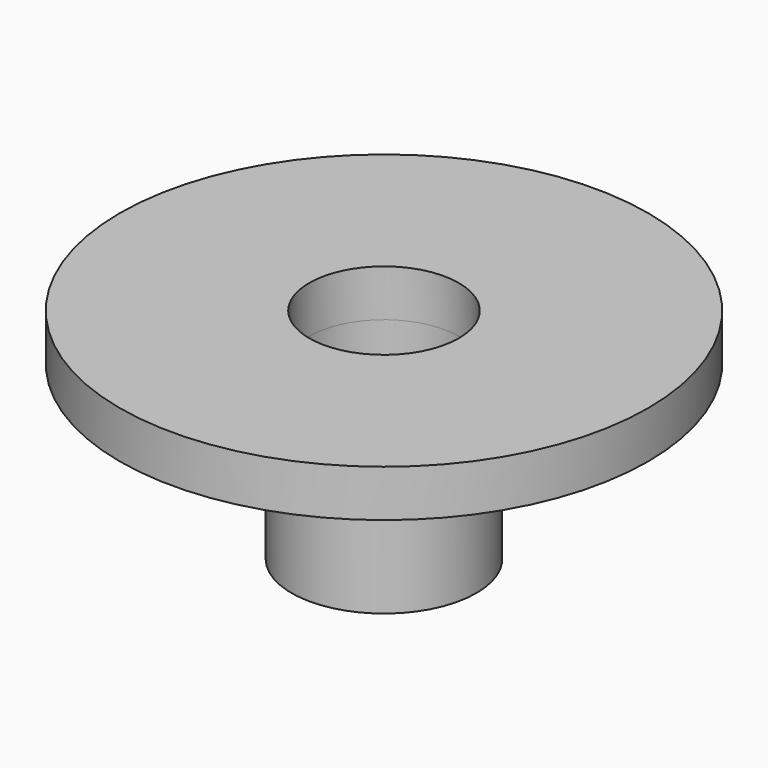
from build123d import *

# Parameters (mm, degrees)
SKETCH_R      = 9
SKETCH_R_2    = 2.55
PAD_DEPTH     = 1.6
SKETCH001_R   = 3.15
SKETCH001_R_2 = 2.55
PAD001_DEPTH  = 5.85


with BuildPart() as part:
    # Sketch → Pad (new body)
    with BuildSketch(Plane.XY):
        Circle(SKETCH_R)
        Circle(SKETCH_R_2, mode=Mode.SUBTRACT)
    extrude(amount=-PAD_DEPTH)

    # Sketch001 → Pad001 (new body)
    with BuildSketch(Plane(origin=(0, 0, -1.6), x_dir=(1, 0, 0), z_dir=(0, 0, -1))):
        Circle(SKETCH001_R)
        Circle(SKETCH001_R_2, mode=Mode.SUBTRACT)
    extrude(amount=PAD001_DEPTH)


solid = part.part
